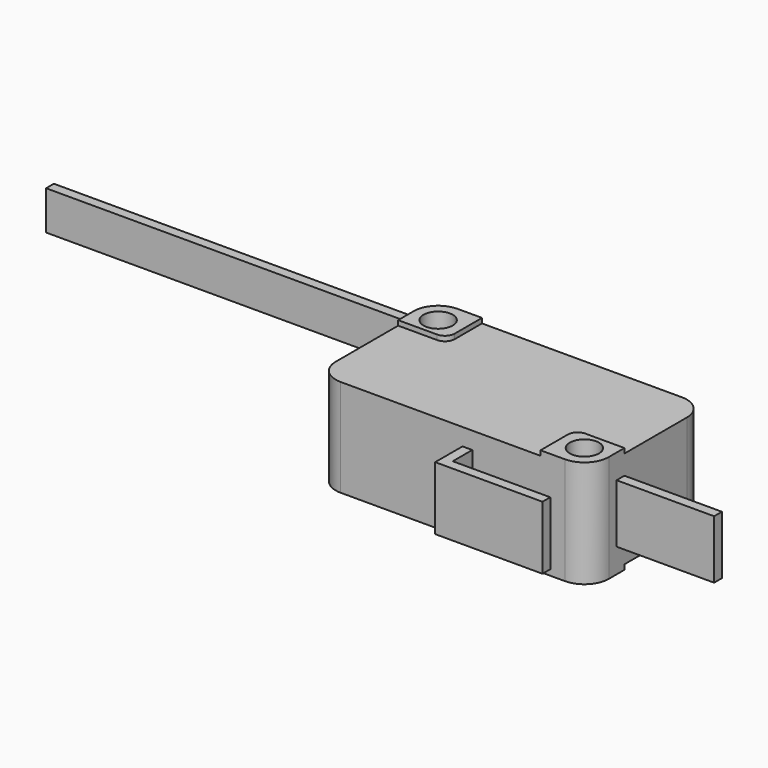
from build123d import *

# Parameters (mm, degrees)
F1_DEPTH  = 10
F2_R      = 1.5
F3_DEPTH  = 15
F4_R      = 1.5
F5_DEPTH  = 0.5
F6_R      = 1.5
F7_DEPTH  = 0.5
F8_W      = 1
F8_H      = 6
F9_DEPTH  = 10
F10_W     = 1
F10_H     = 6.5
F11_DEPTH = 3.5
F12_W     = 1
F12_H     = 6.5
F13_DEPTH = 10
F14_W     = 1
F14_H     = 4
F15_DEPTH = 2
F16_W     = 1
F16_H     = 4
F17_DEPTH = 51


with BuildPart() as f1:
    # F0 (on Top) → F1 (new body)
    with BuildSketch(Plane.XY):
        with BuildLine():
            Line((11.152231, 4.569918), (-11.847769, 4.569918))
            ThreePointArc((-11.847769, 4.569918), (-13.615536, 3.837685), (-14.347769, 2.069918))
            Line((-14.347769, 2.069918), (-14.347769, -7.930082))
            ThreePointArc((-14.347769, -7.930082), (-13.615536, -9.697848), (-11.847769, -10.430082))
            Line((-11.847769, -10.430082), (11.152231, -10.430082))
            ThreePointArc((11.152231, -10.430082), (12.919998, -9.697848), (13.652231, -7.930082))
            Line((13.652231, -7.930082), (13.652231, 2.069918))
            ThreePointArc((13.652231, 2.069918), (12.919998, 3.837685), (11.152231, 4.569918))
        make_face()
    extrude(amount=F1_DEPTH)

    # F2 (on face) → F3 (cut)
    with BuildSketch(Plane.XY.offset(10)):
        with Locations((-11.847769, 2.069918)):
            Circle(F2_R)
        with Locations((11.152231, -7.930082)):
            Circle(F2_R)
    extrude(amount=-F3_DEPTH, mode=Mode.SUBTRACT)

    # F4 (on face) → F5 (join)
    with BuildSketch(Plane.XY.offset(10)):
        with BuildLine():
            Line((-9.347769, 1.069918), (-9.347769, 4.569918))
            Line((-9.347769, 4.569918), (-11.847769, 4.569918))
            ThreePointArc((-11.847769, 4.569918), (-13.615536, 3.837685), (-14.347769, 2.069918))
            Line((-14.347769, 2.069918), (-14.347769, 0.069918))
            Line((-14.347769, 0.069918), (-10.347769, 0.069918))
            ThreePointArc((-10.347769, 0.069918), (-9.640663, 0.362812), (-9.347769, 1.069918))
        make_face()
        with Locations((-11.847769, 2.069918)):
            Circle(F4_R, mode=Mode.SUBTRACT)
        with BuildLine():
            Line((13.652231, -7.930082), (13.652231, -5.930082))
            Line((13.652231, -5.930082), (9.652231, -5.930082))
            ThreePointArc((9.652231, -5.930082), (8.945124, -6.222975), (8.652231, -6.930082))
            Line((8.652231, -6.930082), (8.652231, -10.430082))
            Line((8.652231, -10.430082), (11.152231, -10.430082))
            ThreePointArc((11.152231, -10.430082), (12.919998, -9.697848), (13.652231, -7.930082))
        make_face()
        with Locations((11.152231, -7.930082)):
            Circle(F4_R, mode=Mode.SUBTRACT)
    extrude(amount=F5_DEPTH)

    # F6 (on face) → F7 (join)
    with BuildSketch(Plane(origin=(0, 0, 0), x_dir=(1, 0, 0), z_dir=(0, 0, -1))):
        with BuildLine():
            Line((-10.347769, -0.069918), (-14.347769, -0.069918))
            Line((-14.347769, -0.069918), (-14.347769, -2.069918))
            ThreePointArc((-14.347769, -2.069918), (-13.615536, -3.837685), (-11.847769, -4.569918))
            Line((-11.847769, -4.569918), (-9.347769, -4.569918))
            Line((-9.347769, -4.569918), (-9.347769, -1.069918))
            ThreePointArc((-9.347769, -1.069918), (-9.640663, -0.362812), (-10.347769, -0.069918))
        make_face()
        with Locations((-11.847769, -2.069918)):
            Circle(F6_R, mode=Mode.SUBTRACT)
        with BuildLine():
            Line((11.152231, 10.430082), (8.652231, 10.430082))
            Line((8.652231, 10.430082), (8.652231, 6.930082))
            ThreePointArc((8.652231, 6.930082), (8.945124, 6.222975), (9.652231, 5.930082))
            Line((9.652231, 5.930082), (13.652231, 5.930082))
            Line((13.652231, 5.930082), (13.652231, 7.930082))
            ThreePointArc((13.652231, 7.930082), (12.919998, 9.697848), (11.152231, 10.430082))
        make_face()
        with Locations((11.152231, 7.930082)):
            Circle(F6_R, mode=Mode.SUBTRACT)
    extrude(amount=F7_DEPTH)

    # F8 (on face) → F9 (join)
    with BuildSketch(Plane.YZ.offset(13.652231)):
        with Locations((-6.430082, 5)):
            Rectangle(F8_W, F8_H)
    extrude(amount=F9_DEPTH)

    # F10 (on face) → F11 (join)
    with BuildSketch(Plane.XZ.offset(10.430082)):
        with Locations((1.152231, 5)):
            Rectangle(F10_W, F10_H)
    extrude(amount=F11_DEPTH)

    # F12 (on face) → F13 (join)
    with BuildSketch(Plane.YZ.offset(1.652231)):
        with Locations((-13.430082, 5)):
            Rectangle(F12_W, F12_H)
    extrude(amount=F13_DEPTH)

    # F14 (on face) → F15 (join)
    with BuildSketch(Plane(origin=(0, 4.569918, 0), x_dir=(-1, 0, 0), z_dir=(0, 1, 0))):
        with Locations((3.347769, 5)):
            Rectangle(F14_W, F14_H)
    extrude(amount=F15_DEPTH)

    # F16 (on face) → F17 (join)
    with BuildSketch(Plane(origin=(-3.847769, 0, 0), x_dir=(0, -1, 0), z_dir=(-1, 0, 0))):
        with Locations((-6.069918, 5)):
            Rectangle(F16_W, F16_H)
    extrude(amount=F17_DEPTH)


solid = f1.part
